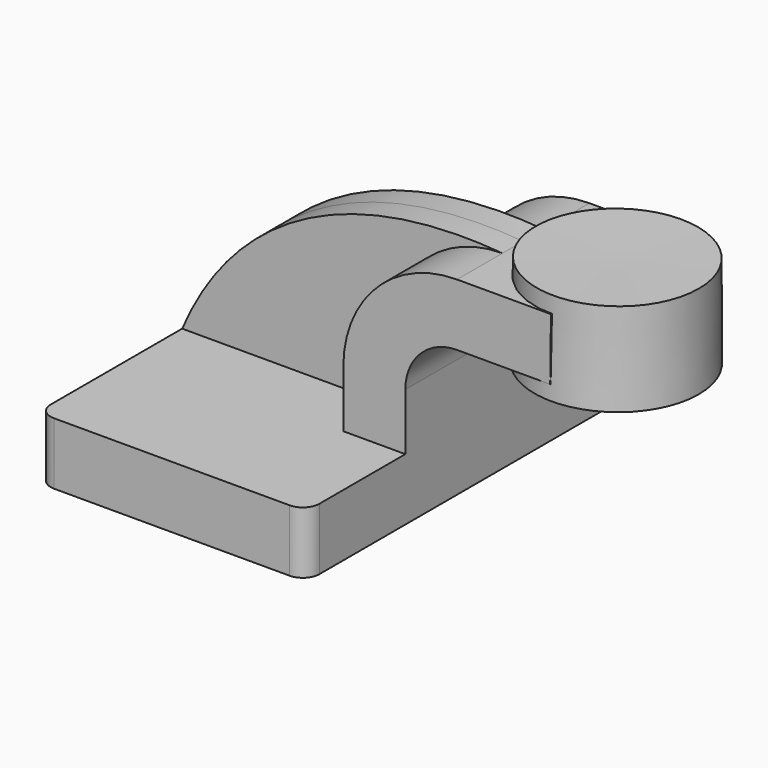
from build123d import *

# Parameters (mm, degrees)
F1_DEPTH = 63.5
F2_DEPTH = 25.4
F3_DEPTH = 7.9375
F4_R     = 5.08


with BuildPart() as f1:
    # F0 (on Front) → F1 (new body, symmetric)
    with BuildSketch(Plane.XZ):
        Polygon((-41.275, 9.525), (-41.275, -9.525), (41.275, -9.525), (41.275, 9.525), (22.225, 9.525), align=None)
    extrude(amount=F1_DEPTH, both=True)

    # F0 (on Front) → F2 (join, symmetric)
    with BuildSketch(Plane.XZ):
        with BuildLine():
            Line((22.225, 9.525), (41.275, 9.525))
            Line((41.275, 9.525), (41.275, 27.0002))
            ThreePointArc((41.275, 27.0002), (45.9246798487, 38.2255201513), (57.15, 42.8752))
            Line((57.15, 42.8752), (60.325, 42.8752))
            Line((60.325, 42.8752), (60.325, 61.9252))
            Line((60.325, 61.9252), (57.15, 61.9252))
            ThreePointArc((57.15, 61.9252), (32.4542956671, 51.6959043329), (22.225, 27.0002))
            Line((22.225, 27.0002), (22.225, 9.525))
        make_face()
        Polygon((86.0115112676, 61.9252), (60.325, 61.9252), (60.325, 42.8752), (85.7824244332, 42.8752), align=None)
    extrude(amount=F2_DEPTH, both=True)

    # F0 (on Front) → F3 (join, symmetric)
    with BuildSketch(Plane.XZ):
        with BuildLine():
            add(Edge.make_bspline(
                [(-41.275, 9.525), (-25.4550203681, 46.5945713222), (9.0541820973, 65.9533962607), (57.15, 61.9252)],
                knots=[0, 0, 0, 0, 111.5045361635, 111.5045361635, 111.5045361635, 111.5045361635], degree=3))
            Line((-41.275, 9.525), (22.225, 9.525))
            Line((22.225, 9.525), (22.225, 27.0002))
            ThreePointArc((22.225, 27.0002), (32.4542956671, 51.6959043329), (57.15, 61.9252))
        make_face()
    extrude(amount=F3_DEPTH, both=True)

    # F4
    f4_edges = [f1.edges().sort_by_distance(p)[0] for p in [
        (-41.275, -63.5, 0),
        (41.275, -63.5, 0),
        (41.275, 63.5, 0),
        (-41.275, 63.5, 0),
    ]]
    fillet(f4_edges, radius=F4_R)


with BuildPart() as f5:
    # F0 (on Front) → F5 (revolve)
    with BuildSketch(Plane.XZ):
        Polygon((86.0686302516, 66.675), (86.0115112676, 61.9252), (85.7824244332, 42.8752), (85.725, 38.1), (111.125, 38.1), (111.125, 66.675), align=None)
    revolve(axis=Axis((85.8968151258, 0, 52.3875), (0.0120246862, 0, 0.9999277008)))


solid = Compound([f1.part, f5.part])
